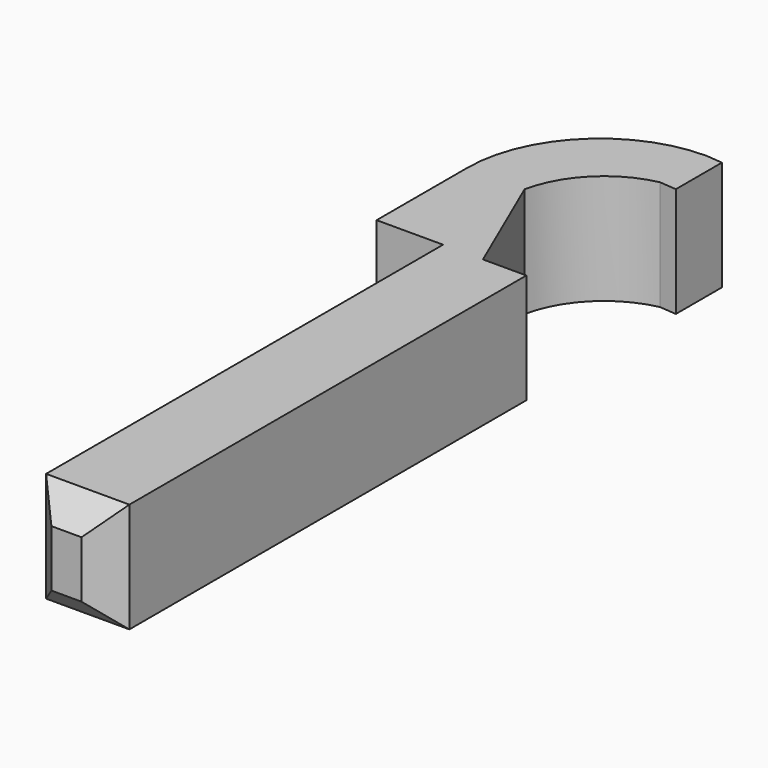
from build123d import *

# Parameters (mm, degrees)
F1_DEPTH = 6.2992
F2_SIZE  = 1.524


with BuildPart() as f1:
    # F0 (on Top) → F1 (new body)
    with BuildSketch(Plane.XY):
        with BuildLine():
            Line((-2.018026, 1.86154), (-2.018026, -28.11046))
            Line((-2.018026, -28.11046), (1.791974, -28.11046))
            Line((1.791974, -28.11046), (2.757174, -28.11046))
            Line((2.757174, -28.11046), (2.757174, 1.86154))
            Line((2.757174, 1.86154), (1.791974, 1.86154))
            Line((1.791974, 1.86154), (0.267974, 1.86154))
            Line((0.267974, 1.86154), (-2.526026, 8.33854))
            ThreePointArc((-2.526026, 8.33854), (-1.007509, 11.138022), (1.791974, 12.65654))
            Line((1.791974, 12.65654), (2.757174, 12.573544))
            Line((2.757174, 12.573544), (2.757174, 15.875544))
            Line((2.757174, 15.875544), (1.791974, 15.95854))
            ThreePointArc((1.791974, 15.95854), (-3.59618, 13.726694), (-5.828026, 8.33854))
            Line((-5.828026, 8.33854), (-5.828026, 1.86154))
            Line((-5.828026, 1.86154), (-2.018026, 1.86154))
        make_face()
    extrude(amount=F1_DEPTH)

    # F2
    f2_edges = [f1.edges().sort_by_distance(p)[0] for p in [
        (0.369574, -28.11046, 6.2992),
        (-2.018026, -28.11046, 3.1496),
        (2.757174, -28.11046, 3.1496),
        (0.369574, -28.11046, 0),
    ]]
    chamfer(f2_edges, length=F2_SIZE)


solid = f1.part
